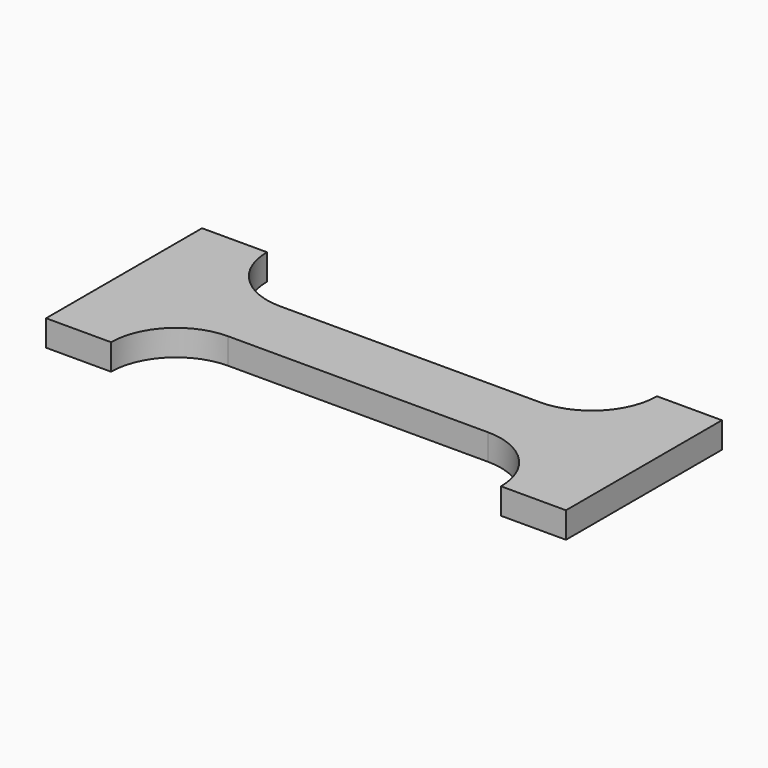
from build123d import *

# Parameters (mm, degrees)
F1_DEPTH = 0.5


with BuildPart() as f1:
    # F0 (on Top) → F1 (new body, symmetric)
    with BuildSketch(Plane.XY):
        with BuildLine():
            Line((0, -1.25), (0, 1.25))
            Line((0, 1.25), (-5, 1.25))
            ThreePointArc((-5, 1.25), (-6.767766953, 1.982233047), (-7.5, 3.75))
            Line((-7.5, 3.75), (-10, 3.75))
            Line((-10, 3.75), (-10, -3.75))
            Line((-10, -3.75), (-7.5, -3.75))
            ThreePointArc((-7.5, -3.75), (-6.767766953, -1.982233047), (-5, -1.25))
            Line((-5, -1.25), (0, -1.25))
        make_face()
        with BuildLine():
            ThreePointArc((7.5, 3.75), (6.767766953, 1.982233047), (5, 1.25))
            Line((5, 1.25), (0, 1.25))
            Line((0, 1.25), (0, -1.25))
            Line((0, -1.25), (5, -1.25))
            ThreePointArc((5, -1.25), (6.767766953, -1.982233047), (7.5, -3.75))
            Line((7.5, -3.75), (10, -3.75))
            Line((10, -3.75), (10, 3.75))
            Line((10, 3.75), (7.5, 3.75))
        make_face()
    extrude(amount=F1_DEPTH, both=True)

    # F2 (on Top) → F3 (revolve, cut)
    with BuildSketch(Plane.XY):
        with BuildLine():
            Line((-3.375, 0), (-3.625, 0))
            ThreePointArc((-3.625, 0), (-3.5, -0.125), (-3.375, 0))
        make_face()
        with BuildLine():
            Line((-2.375, 0), (-2.625, 0))
            ThreePointArc((-2.625, 0), (-2.5, -0.125), (-2.375, 0))
        make_face()
        with BuildLine():
            Line((-1.375, 0), (-1.625, 0))
            ThreePointArc((-1.625, 0), (-1.5, -0.125), (-1.375, 0))
        make_face()
        with BuildLine():
            Line((-0.375, 0), (-0.625, 0))
            ThreePointArc((-0.625, 0), (-0.5, -0.125), (-0.375, 0))
        make_face()
        with BuildLine():
            Line((0.625, 0), (0.375, 0))
            ThreePointArc((0.375, 0), (0.5, -0.125), (0.625, 0))
        make_face()
        with BuildLine():
            Line((1.625, 0), (1.375, 0))
            ThreePointArc((1.375, 0), (1.5, -0.125), (1.625, 0))
        make_face()
        with BuildLine():
            Line((2.625, 0), (2.375, 0))
            ThreePointArc((2.375, 0), (2.5, -0.125), (2.625, 0))
        make_face()
        with BuildLine():
            Line((3.625, 0), (3.375, 0))
            ThreePointArc((3.375, 0), (3.5, -0.125), (3.625, 0))
        make_face()
    revolve(axis=Axis((0, 0, 0), (1, 0, 0)), mode=Mode.SUBTRACT)


with BuildPart() as f4:
    # F2 (on Top) → F4 (revolve)
    with BuildSketch(Plane.XY):
        with BuildLine():
            Line((-3.375, 0), (-3.625, 0))
            ThreePointArc((-3.625, 0), (-3.5, -0.125), (-3.375, 0))
        make_face()
    revolve(axis=Axis((0, 0, 0), (1, 0, 0)))


with BuildPart() as f4b:
    # F2 (on Top) → F4, piece 2 (revolve)
    with BuildSketch(Plane.XY):
        with BuildLine():
            Line((-2.375, 0), (-2.625, 0))
            ThreePointArc((-2.625, 0), (-2.5, -0.125), (-2.375, 0))
        make_face()
    revolve(axis=Axis((0, 0, 0), (1, 0, 0)))


with BuildPart() as f4c:
    # F2 (on Top) → F4, piece 3 (revolve)
    with BuildSketch(Plane.XY):
        with BuildLine():
            Line((-1.375, 0), (-1.625, 0))
            ThreePointArc((-1.625, 0), (-1.5, -0.125), (-1.375, 0))
        make_face()
    revolve(axis=Axis((0, 0, 0), (1, 0, 0)))


with BuildPart() as f4d:
    # F2 (on Top) → F4, piece 4 (revolve)
    with BuildSketch(Plane.XY):
        with BuildLine():
            Line((-0.375, 0), (-0.625, 0))
            ThreePointArc((-0.625, 0), (-0.5, -0.125), (-0.375, 0))
        make_face()
    revolve(axis=Axis((0, 0, 0), (1, 0, 0)))


with BuildPart() as f4e:
    # F2 (on Top) → F4, piece 5 (revolve)
    with BuildSketch(Plane.XY):
        with BuildLine():
            Line((0.625, 0), (0.375, 0))
            ThreePointArc((0.375, 0), (0.5, -0.125), (0.625, 0))
        make_face()
    revolve(axis=Axis((0, 0, 0), (1, 0, 0)))


with BuildPart() as f4f:
    # F2 (on Top) → F4, piece 6 (revolve)
    with BuildSketch(Plane.XY):
        with BuildLine():
            Line((1.625, 0), (1.375, 0))
            ThreePointArc((1.375, 0), (1.5, -0.125), (1.625, 0))
        make_face()
    revolve(axis=Axis((0, 0, 0), (1, 0, 0)))


with BuildPart() as f4g:
    # F2 (on Top) → F4, piece 7 (revolve)
    with BuildSketch(Plane.XY):
        with BuildLine():
            Line((2.625, 0), (2.375, 0))
            ThreePointArc((2.375, 0), (2.5, -0.125), (2.625, 0))
        make_face()
    revolve(axis=Axis((0, 0, 0), (1, 0, 0)))


with BuildPart() as f4h:
    # F2 (on Top) → F4, piece 8 (revolve)
    with BuildSketch(Plane.XY):
        with BuildLine():
            Line((3.625, 0), (3.375, 0))
            ThreePointArc((3.375, 0), (3.5, -0.125), (3.625, 0))
        make_face()
    revolve(axis=Axis((0, 0, 0), (1, 0, 0)))


solid = Compound([f1.part, f4.part, f4b.part, f4c.part, f4d.part, f4e.part, f4f.part, f4g.part, f4h.part])
